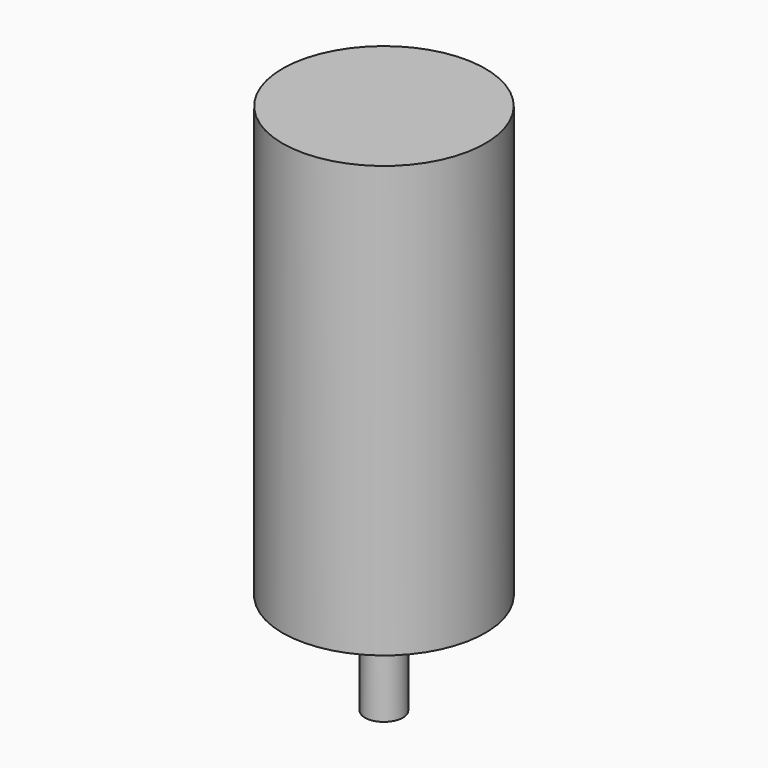
from build123d import *

# Parameters (mm, degrees)
CYLINDER002_R          = 3
CYLINDER002_DEPTH      = 2.5
CYLINDER004_R          = 1
CYLINDER004_DEPTH      = 8.5
CYLINDER003_R          = 1
CYLINDER003_DEPTH      = 8.5
CYLINDER_R             = 8
CYLINDER_DEPTH         = 34
CYLINDER001_R          = 1.5
CYLINDER001_DEPTH      = 8
FUSION_PLACEMENT_ANGLE = 44.999934


with BuildPart() as bearing:
    # Cylinder002 → Cylinder002 (new body)
    with BuildSketch(Plane.XY.offset(-2)):
        Circle(CYLINDER002_R)
    extrude(amount=CYLINDER002_DEPTH)


with BuildPart() as cylinder004:
    # Cylinder004 → Cylinder004 (new body)
    with BuildSketch(Plane(origin=(-5.5, 0, -8), x_dir=(1, 0, 0), z_dir=(0, 0, 1))):
        Circle(CYLINDER004_R)
    extrude(amount=CYLINDER004_DEPTH)


with BuildPart() as cylinder003:
    # Cylinder003 → Cylinder003 (new body)
    with BuildSketch(Plane(origin=(5.5, 0, -8), x_dir=(1, 0, 0), z_dir=(0, 0, 1))):
        Circle(CYLINDER003_R)
    extrude(amount=CYLINDER003_DEPTH)


with BuildPart() as cut001:
    # Cylinder → Cylinder (new body)
    with BuildSketch(Plane.XY):
        Circle(CYLINDER_R)
    extrude(amount=CYLINDER_DEPTH)

    # Cut: cut Cylinder003
    add(cylinder003.part, mode=Mode.SUBTRACT)

    # Cut001: cut Cylinder004
    add(cylinder004.part, mode=Mode.SUBTRACT)


with BuildPart() as obj1:
    # Cylinder001 → Cylinder001 (new body)
    with BuildSketch(Plane.XY.offset(-8)):
        Circle(CYLINDER001_R)
    extrude(amount=CYLINDER001_DEPTH)

    # Fusion: union bearing, Cut001
    add(bearing.part)
    add(cut001.part)


with BuildPart() as obj1_1:
    # Fusion placement: moved
    add(obj1.part.rotate(Axis((0, 0, 0), (0, 0, 1)), FUSION_PLACEMENT_ANGLE))


solid = obj1_1.part
